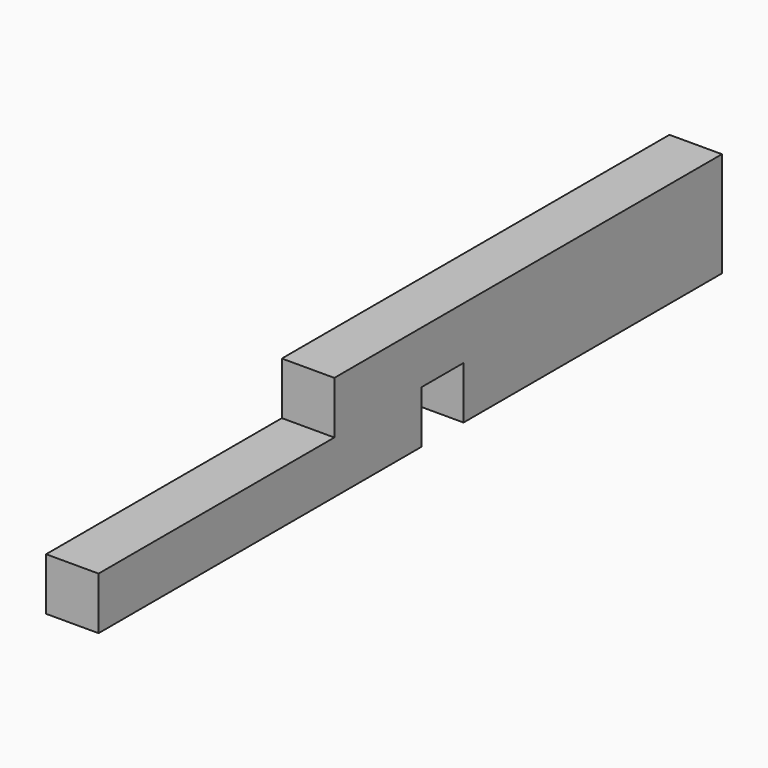
from build123d import *

# Parameters (mm, degrees)
BOX039_W     = 13
BOX039_H     = 120
BOX039_DEPTH = 13
BOX038_W     = 13
BOX038_H     = 80
BOX038_DEPTH = 13
BOX040_W     = 13
BOX040_H     = 100
BOX040_DEPTH = 13


with BuildPart() as cube035:
    # Box039 → Box039 (new body)
    with BuildSketch(Plane(origin=(-6.5, -102, -7), x_dir=(1, 0, 0), z_dir=(0, 0, 1))):
        with Locations((6.5, 60)):
            Rectangle(BOX039_W, BOX039_H)
    extrude(amount=BOX039_DEPTH)


with BuildPart() as fusion020:
    # Box038 → Box038 (new body)
    with BuildSketch(Plane(origin=(-6.5, -62, -20), x_dir=(1, 0, 0), z_dir=(0, 0, 1))):
        with Locations((6.5, 40)):
            Rectangle(BOX038_W, BOX038_H)
    extrude(amount=BOX038_DEPTH)

    # Fusion020: union Cube035
    add(cube035.part)


with BuildPart() as fusion025:
    # Box040 → Box040 (new body)
    with BuildSketch(Plane(origin=(-6.5, -175, -20), x_dir=(1, 0, 0), z_dir=(0, 0, 1))):
        with Locations((6.5, 50)):
            Rectangle(BOX040_W, BOX040_H)
    extrude(amount=BOX040_DEPTH)

    # Fusion025: union Fusion020
    add(fusion020.part)


solid = fusion025.part
